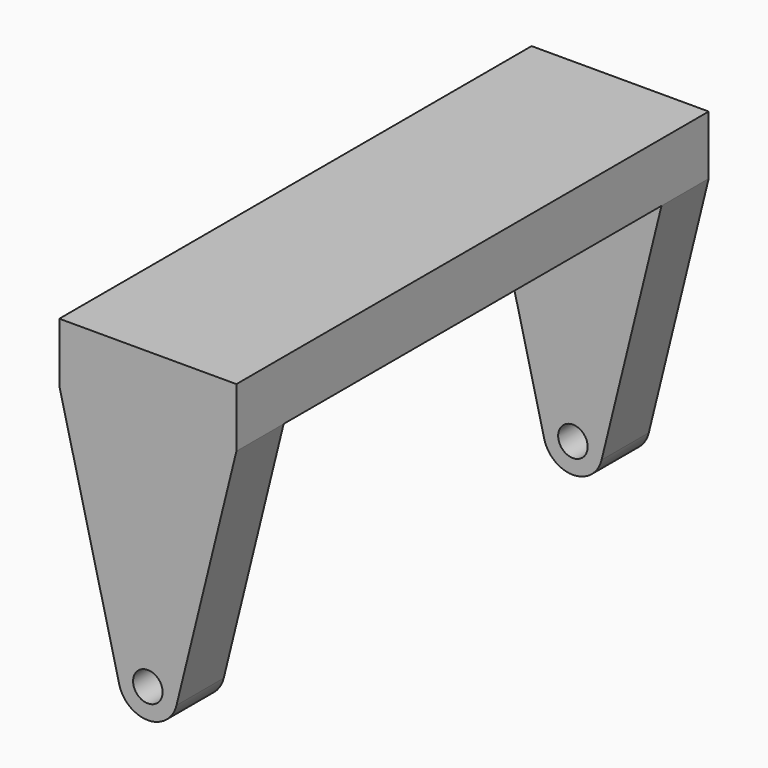
from build123d import *

# Parameters (mm, degrees)
F1_DEPTH = 63.5
F2_W     = 50.8
F2_H     = 35.000445
F3_DEPTH = 19.051
F4_R     = 1.5875
F5_DEPTH = 63.501


with BuildPart() as f1:
    # F0 (on Front) → F1 (new body)
    with BuildSketch(Plane.XZ):
        with BuildLine():
            Line((-9.525, 6.35), (-9.525, 0))
            Line((-9.525, 0), (-3.082892, -26.15921))
            ThreePointArc((-3.082892, -26.15921), (0, -28.575), (3.082892, -26.15921))
            Line((3.082892, -26.15921), (9.525, 0))
            Line((9.525, 0), (9.525, 6.35))
            Line((9.525, 6.35), (-9.525, 6.35))
        make_face()
    extrude(amount=F1_DEPTH)

    # F2 (on face) → F3 (cut, through all)
    with BuildSketch(Plane.YZ.offset(9.525)):
        with Locations((-31.75, -17.500222)):
            Rectangle(F2_W, F2_H)
    extrude(amount=-F3_DEPTH, mode=Mode.SUBTRACT)

    # F4 (on face) → F5 (cut, through all)
    with BuildSketch(Plane(origin=(0, 0, 0), x_dir=(-1, 0, 0), z_dir=(0, 1, 0))):
        with Locations((0, -25.4)):
            Circle(F4_R)
    extrude(amount=-F5_DEPTH, mode=Mode.SUBTRACT)


solid = f1.part
